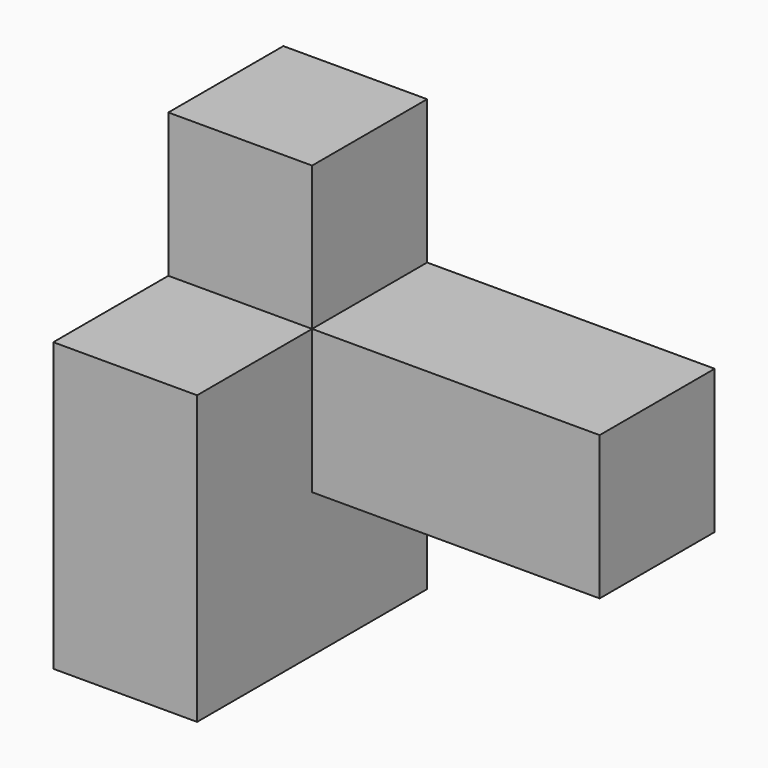
from build123d import *

# Parameters (mm, degrees)
F0_W     = 19.05
F0_H     = 38.1
F1_DEPTH = 38.1
F2_W     = 19.05
F2_H     = 19.05
F3_DEPTH = 19.05
F4_W     = 19.05
F4_H     = 19.05
F5_DEPTH = 38.1


with BuildPart() as f1:
    # F0 (on Top) → F1 (new body)
    with BuildSketch(Plane.XY):
        with Locations((9.525, 19.05)):
            Rectangle(F0_W, F0_H)
    extrude(amount=F1_DEPTH)

    # F2 (on face) → F3 (join)
    with BuildSketch(Plane.XY.offset(38.1)):
        with Locations((9.525, 28.575)):
            Rectangle(F2_W, F2_H)
    extrude(amount=F3_DEPTH)

    # F4 (on face) → F5 (join)
    with BuildSketch(Plane.YZ.offset(19.05)):
        with Locations((28.575, 28.575)):
            Rectangle(F4_W, F4_H)
    extrude(amount=F5_DEPTH)


solid = f1.part
